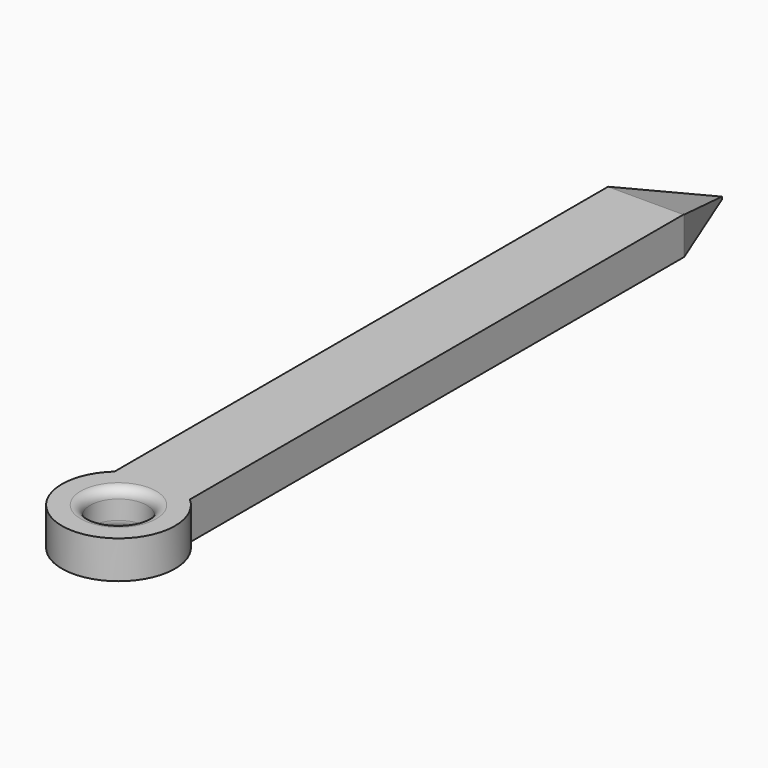
from build123d import *

# Parameters (mm, degrees)
SKETCH_R     = 1.5
PAD_DEPTH    = 2
POCKET_DEPTH = 2.5
FILLET_R     = 0.5


with BuildPart() as part:
    # Sketch → Pad (new body)
    with BuildSketch(Plane.XY):
        with BuildLine():
            ThreePointArc((-2, 2.236068), (0, -3), (2, 2.236068))
            Line((2, 2.236068), (2, 35))
            Line((0, 40), (2, 35))
            Line((0, 40), (-2, 35))
            Line((-2, 35), (-2, 2.236068))
        make_face()
        Circle(SKETCH_R, mode=Mode.SUBTRACT)
    extrude(amount=PAD_DEPTH)

    # Sketch001 → Pocket (cut, symmetric)
    with BuildSketch(Plane.YZ):
        Polygon((40.364792, 0), (32.17564, 3.019657), (42.446777, 4.153183), align=None)
    extrude(amount=POCKET_DEPTH, both=True, mode=Mode.SUBTRACT)

    # Fillet
    fillet_edges = [part.edges().sort_by_distance(p)[0] for p in [
        (-1.5, 0, 2),
        (-1.5, 0, 0),
    ]]
    fillet(fillet_edges, radius=FILLET_R)


solid = part.part
